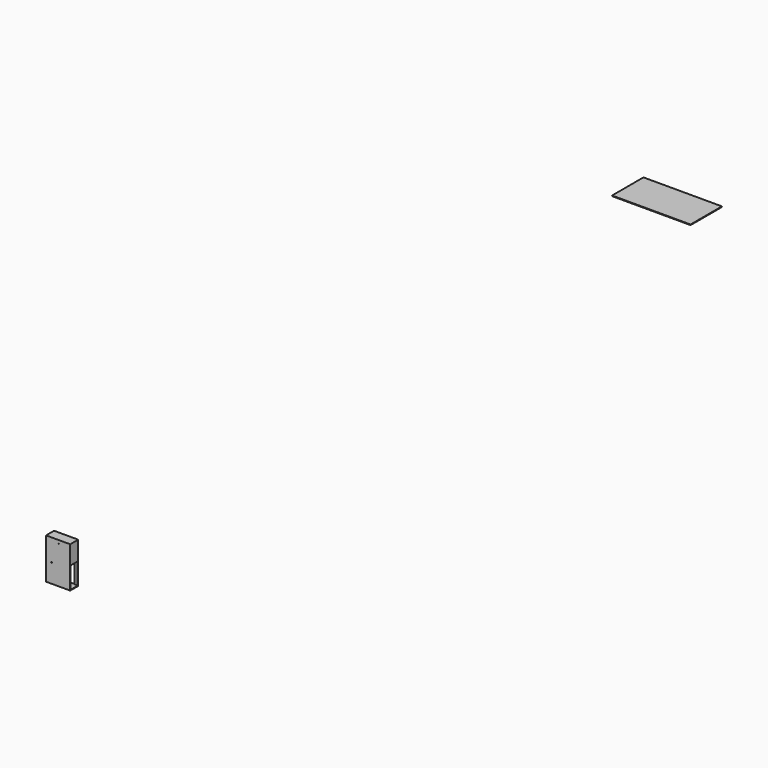
from build123d import *

# Parameters (mm, degrees)
BOX_W                  = 750
BOX_H                  = 300
BOX_DEPTH              = 19
BOX001_W               = 731
BOX001_H               = 300
BOX001_DEPTH           = 19
BOX002_W               = 731
BOX002_H               = 300
BOX002_DEPTH           = 19
BOX003_W               = 19
BOX003_H               = 300
BOX003_DEPTH           = 1300
BOX004_W               = 19
BOX004_H               = 300
BOX004_DEPTH           = 600
BOX005_W               = 550
BOX005_H               = 19
BOX005_DEPTH           = 705
BOX006_W               = 219
BOX006_H               = 19
BOX006_DEPTH           = 705
BOX007_W               = 19
BOX007_H               = 300
BOX007_DEPTH           = 681
BOX008_W               = 769
BOX008_H               = 19
BOX008_DEPTH           = 595
BOX009_W               = 100
BOX009_H               = 19
BOX009_DEPTH           = 681
CYLINDER_R             = 10
CYLINDER_DEPTH         = 20
CYLINDER_ROLL_ANGLE    = 90
CYLINDER001_R          = 10
CYLINDER001_DEPTH      = 20
CYLINDER001_ROLL_ANGLE = 90
BOX011_W               = 731
BOX011_H               = 300
BOX011_DEPTH           = 19
BOX012_W               = 731
BOX012_H               = 300
BOX012_DEPTH           = 19
BOX013_W               = 19
BOX013_H               = 300
BOX013_DEPTH           = 1300
BOX014_W               = 19
BOX014_H               = 300
BOX014_DEPTH           = 600
BOX015_W               = 550
BOX015_H               = 19
BOX015_DEPTH           = 705
BOX016_W               = 219
BOX016_H               = 19
BOX016_DEPTH           = 705
BOX017_W               = 19
BOX017_H               = 300
BOX017_DEPTH           = 681
BOX018_W               = 769
BOX018_H               = 19
BOX018_DEPTH           = 595
BOX019_W               = 100
BOX019_H               = 19
BOX019_DEPTH           = 681
CYLINDER002_R          = 10
CYLINDER002_DEPTH      = 20
CYLINDER002_ROLL_ANGLE = 90
CYLINDER003_R          = 10
CYLINDER003_DEPTH      = 20
CYLINDER003_ROLL_ANGLE = 90
BOX010_W               = 750
BOX010_H               = 300
BOX010_DEPTH           = 19
BOX020_W               = 2500
BOX020_H               = 1250
BOX020_DEPTH           = 19


with BuildPart() as boden:
    # Box → Box (new body)
    with BuildSketch(Plane.XY):
        with Locations((375, 150)):
            Rectangle(BOX_W, BOX_H)
    extrude(amount=BOX_DEPTH)


with BuildPart() as obj1:
    # Box001 → Box001 (new body)
    with BuildSketch(Plane.XY.offset(700)):
        with Locations((365.5, 150)):
            Rectangle(BOX001_W, BOX001_H)
    extrude(amount=BOX001_DEPTH)


with BuildPart() as deckel:
    # Box002 → Box002 (new body)
    with BuildSketch(Plane.XY.offset(1281)):
        with Locations((365.5, 150)):
            Rectangle(BOX002_W, BOX002_H)
    extrude(amount=BOX002_DEPTH)


with BuildPart() as obj2:
    # Box003 → Box003 (new body)
    with BuildSketch(Plane(origin=(-19, 0, 0), x_dir=(1, 0, 0), z_dir=(0, 0, 1))):
        with Locations((9.5, 150)):
            Rectangle(BOX003_W, BOX003_H)
    extrude(amount=BOX003_DEPTH)


with BuildPart() as obj3:
    # Box004 → Box004 (new body)
    with BuildSketch(Plane(origin=(731, 0, 700), x_dir=(1, 0, 0), z_dir=(0, 0, 1))):
        with Locations((9.5, 150)):
            Rectangle(BOX004_W, BOX004_H)
    extrude(amount=BOX004_DEPTH)


with BuildPart() as obj4:
    # Box005 → Box005 (new body)
    with BuildSketch(Plane(origin=(200, -19, 0), x_dir=(1, 0, 0), z_dir=(0, 0, 1))):
        with Locations((275, 9.5)):
            Rectangle(BOX005_W, BOX005_H)
    extrude(amount=BOX005_DEPTH)


with BuildPart() as obj5:
    # Box006 → Box006 (new body)
    with BuildSketch(Plane(origin=(-19, -19, 0), x_dir=(1, 0, 0), z_dir=(0, 0, 1))):
        with Locations((109.5, 9.5)):
            Rectangle(BOX006_W, BOX006_H)
    extrude(amount=BOX006_DEPTH)


with BuildPart() as obj6:
    # Box007 → Box007 (new body)
    with BuildSketch(Plane(origin=(190, 0, 19), x_dir=(1, 0, 0), z_dir=(0, 0, 1))):
        with Locations((9.5, 150)):
            Rectangle(BOX007_W, BOX007_H)
    extrude(amount=BOX007_DEPTH)


with BuildPart() as obj7:
    # Box008 → Box008 (new body)
    with BuildSketch(Plane(origin=(-19, -19, 705), x_dir=(1, 0, 0), z_dir=(0, 0, 1))):
        with Locations((384.5, 9.5)):
            Rectangle(BOX008_W, BOX008_H)
    extrude(amount=BOX008_DEPTH)


with BuildPart() as obj8:
    # Box009 → Box009 (new body)
    with BuildSketch(Plane(origin=(650, 281, 19), x_dir=(1, 0, 0), z_dir=(0, 0, 1))):
        with Locations((50, 9.5)):
            Rectangle(BOX009_W, BOX009_H)
    extrude(amount=BOX009_DEPTH)


with BuildPart() as obj9:
    # Cylinder → Cylinder (new body)
    with BuildSketch(Plane.XY):
        Circle(CYLINDER_R)
    extrude(amount=CYLINDER_DEPTH)


with BuildPart() as obj9_1:
    # Cylinder roll: moved
    add(obj9.part.rotate(Axis((0, 0, 0), (1, 0, 0)), CYLINDER_ROLL_ANGLE))


with BuildPart() as obj9_2:
    # Cylinder placement: moved
    add(obj9_1.part.moved(Location((160, -19, 600))))


with BuildPart() as obj10:
    # Cylinder001 → Cylinder001 (new body)
    with BuildSketch(Plane.XY):
        Circle(CYLINDER001_R)
    extrude(amount=CYLINDER001_DEPTH)


with BuildPart() as obj10_1:
    # Cylinder001 roll: moved
    add(obj10.part.rotate(Axis((0, 0, 0), (1, 0, 0)), CYLINDER001_ROLL_ANGLE))


with BuildPart() as obj10_2:
    # Cylinder001 placement: moved
    add(obj10_1.part.moved(Location((380, -19, 1200))))


with BuildPart() as obj11:
    # Box011 → Box011 (new body)
    with BuildSketch(Plane.XY.offset(700)):
        with Locations((365.5, 150)):
            Rectangle(BOX011_W, BOX011_H)
    extrude(amount=BOX011_DEPTH)


with BuildPart() as deckel001:
    # Box012 → Box012 (new body)
    with BuildSketch(Plane.XY.offset(1281)):
        with Locations((365.5, 150)):
            Rectangle(BOX012_W, BOX012_H)
    extrude(amount=BOX012_DEPTH)


with BuildPart() as obj12:
    # Box013 → Box013 (new body)
    with BuildSketch(Plane(origin=(-19, 0, 0), x_dir=(1, 0, 0), z_dir=(0, 0, 1))):
        with Locations((9.5, 150)):
            Rectangle(BOX013_W, BOX013_H)
    extrude(amount=BOX013_DEPTH)


with BuildPart() as obj13:
    # Box014 → Box014 (new body)
    with BuildSketch(Plane(origin=(731, 0, 700), x_dir=(1, 0, 0), z_dir=(0, 0, 1))):
        with Locations((9.5, 150)):
            Rectangle(BOX014_W, BOX014_H)
    extrude(amount=BOX014_DEPTH)


with BuildPart() as obj14:
    # Box015 → Box015 (new body)
    with BuildSketch(Plane(origin=(200, -19, 0), x_dir=(1, 0, 0), z_dir=(0, 0, 1))):
        with Locations((275, 9.5)):
            Rectangle(BOX015_W, BOX015_H)
    extrude(amount=BOX015_DEPTH)


with BuildPart() as obj15:
    # Box016 → Box016 (new body)
    with BuildSketch(Plane(origin=(-19, -19, 0), x_dir=(1, 0, 0), z_dir=(0, 0, 1))):
        with Locations((109.5, 9.5)):
            Rectangle(BOX016_W, BOX016_H)
    extrude(amount=BOX016_DEPTH)


with BuildPart() as obj16:
    # Box017 → Box017 (new body)
    with BuildSketch(Plane(origin=(190, 0, 19), x_dir=(1, 0, 0), z_dir=(0, 0, 1))):
        with Locations((9.5, 150)):
            Rectangle(BOX017_W, BOX017_H)
    extrude(amount=BOX017_DEPTH)


with BuildPart() as obj17:
    # Box018 → Box018 (new body)
    with BuildSketch(Plane(origin=(-19, -19, 705), x_dir=(1, 0, 0), z_dir=(0, 0, 1))):
        with Locations((384.5, 9.5)):
            Rectangle(BOX018_W, BOX018_H)
    extrude(amount=BOX018_DEPTH)


with BuildPart() as obj18:
    # Box019 → Box019 (new body)
    with BuildSketch(Plane(origin=(650, 281, 19), x_dir=(1, 0, 0), z_dir=(0, 0, 1))):
        with Locations((50, 9.5)):
            Rectangle(BOX019_W, BOX019_H)
    extrude(amount=BOX019_DEPTH)


with BuildPart() as obj19:
    # Cylinder002 → Cylinder002 (new body)
    with BuildSketch(Plane.XY):
        Circle(CYLINDER002_R)
    extrude(amount=CYLINDER002_DEPTH)


with BuildPart() as obj19_1:
    # Cylinder002 roll: moved
    add(obj19.part.rotate(Axis((0, 0, 0), (1, 0, 0)), CYLINDER002_ROLL_ANGLE))


with BuildPart() as obj19_2:
    # Cylinder002 placement: moved
    add(obj19_1.part.moved(Location((160, -19, 600))))


with BuildPart() as obj20:
    # Cylinder003 → Cylinder003 (new body)
    with BuildSketch(Plane.XY):
        Circle(CYLINDER003_R)
    extrude(amount=CYLINDER003_DEPTH)


with BuildPart() as obj20_1:
    # Cylinder003 roll: moved
    add(obj20.part.rotate(Axis((0, 0, 0), (1, 0, 0)), CYLINDER003_ROLL_ANGLE))


with BuildPart() as obj20_2:
    # Cylinder003 placement: moved
    add(obj20_1.part.moved(Location((380, -19, 1200))))


with BuildPart() as connect:
    # Box010 → Box010 (new body)
    with BuildSketch(Plane.XY):
        with Locations((375, 150)):
            Rectangle(BOX010_W, BOX010_H)
    extrude(amount=BOX010_DEPTH)

    # Connect: union obj11, Deckel001, obj12, obj13, obj14, obj15, obj16, obj17, obj18, obj19, obj20
    add(obj11.part)
    add(deckel001.part)
    add(obj12.part)
    add(obj13.part)
    add(obj14.part)
    add(obj15.part)
    add(obj16.part)
    add(obj17.part)
    add(obj18.part)
    add(obj19_2.part)
    add(obj20_2.part)


with BuildPart() as obj21:
    # Box020 → Box020 (new body)
    with BuildSketch(Plane(origin=(10000, 10000, 10000), x_dir=(1, 0, 0), z_dir=(0, 0, 1))):
        with Locations((1250, 625)):
            Rectangle(BOX020_W, BOX020_H)
    extrude(amount=BOX020_DEPTH)


solid = Compound([boden.part, obj1.part, deckel.part, obj2.part, obj3.part, obj4.part, obj5.part, obj6.part, obj7.part, obj8.part, obj9_2.part, obj10_2.part, connect.part, obj21.part])
